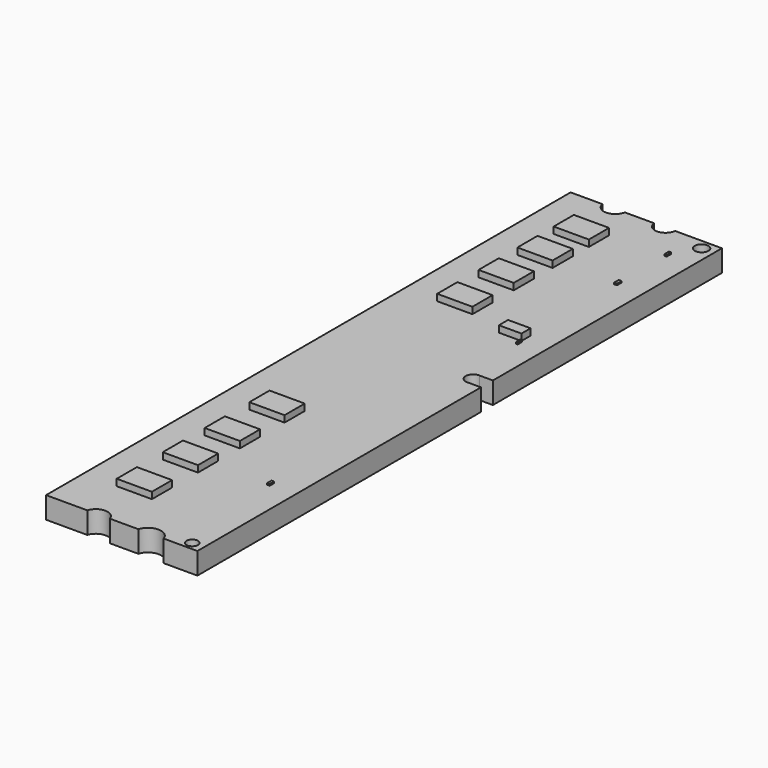
from build123d import *

# Parameters (mm, degrees)
F1_DEPTH = 0.43
F2_R     = 0.114538
F2_R_2   = 0.135459
F3_DEPTH = 25
F4_W     = 0.697841
F4_H     = 0.5
F4_W_2   = 0.446198
F4_H_2   = 0.226708
F5_DEPTH = 0.13
F7_DEPTH = 25
F8_W     = 0.044617
F8_H     = 0.11
F8_W_2   = 0.05577
F8_W_3   = 0.03778
F8_W_4   = 0.051917
F9_DEPTH = 0.03


with BuildPart() as f1:
    # F0 (on Top) → F1 (new body)
    with BuildSketch(Plane.XY):
        with BuildLine():
            Line((-17.317478, 8.504073), (-17.317478, 21.504073))
            Line((-17.317478, 21.504073), (-18.245058, 21.504073))
            ThreePointArc((-18.245058, 21.504073), (-18.453947, 21.317083), (-18.662836, 21.504073))
            Line((-18.662836, 21.504073), (-19.242154, 21.504073))
            ThreePointArc((-19.242154, 21.504073), (-19.46455, 21.317806), (-19.686945, 21.504073))
            Line((-19.686945, 21.504073), (-20.317478, 21.504073))
            Line((-20.317478, 21.504073), (-20.317478, 8.504073))
            Line((-20.317478, 8.504073), (-19.500678, 8.504073))
            ThreePointArc((-19.500678, 8.504073), (-19.276541, 8.670717), (-19.052403, 8.504073))
            Line((-19.052403, 8.504073), (-18.489325, 8.504073))
            ThreePointArc((-18.489325, 8.504073), (-18.237854, 8.690502), (-17.986383, 8.504073))
            Line((-17.986383, 8.504073), (-17.317478, 8.504073))
        make_face()
    extrude(amount=F1_DEPTH)

    # F2 (on face) → F3 (cut)
    with BuildSketch(Plane.XY.offset(0.43)):
        with Locations((-17.549288, 8.667056)):
            Circle(F2_R)
        with Locations((-17.561315, 21.304632)):
            Circle(F2_R_2)
    extrude(amount=-F3_DEPTH, mode=Mode.SUBTRACT)

    # F4 (on face) → F5 (join)
    with BuildSketch(Plane.XY.offset(0.43)):
        with Locations((-19.301415, 20.500756)):
            Rectangle(F4_W, F4_H)
        with Locations((-19.301415, 19.600825)):
            Rectangle(F4_W, F4_H)
        with Locations((-19.301415, 18.6384)):
            Rectangle(F4_W, F4_H)
        with Locations((-19.301415, 17.613479)):
            Rectangle(F4_W, F4_H)
        with Locations((-18.021959, 17.250125)):
            Rectangle(F4_W_2, F4_H_2)
        with Locations((-19.301415, 12.958157)):
            Rectangle(F4_W, F4_H)
        with Locations((-19.301415, 11.851003)):
            Rectangle(F4_W, F4_H)
        with Locations((-19.301415, 10.811981)):
            Rectangle(F4_W, F4_H)
        with Locations((-19.301415, 9.670762)):
            Rectangle(F4_W, F4_H)
    extrude(amount=F5_DEPTH)

    # F6 (on face) → F7 (cut)
    with BuildSketch(Plane.XY.offset(0.43)):
        with BuildLine():
            Line((-17.317478, 15.827807), (-17.584291, 15.827807))
            ThreePointArc((-17.584291, 15.827807), (-17.73952, 15.677507), (-17.579334, 15.532503))
            Line((-17.579334, 15.532503), (-17.317478, 15.532503))
            Line((-17.317478, 15.532503), (-17.317478, 15.827807))
        make_face()
    extrude(amount=-F7_DEPTH, mode=Mode.SUBTRACT)

    # F8 (on face) → F9 (join)
    with BuildSketch(Plane.XY.offset(0.43)):
        with Locations((-17.831758, 20.805756)):
            Rectangle(F8_W, F8_H)
        with Locations((-17.837335, 19.574996)):
            Rectangle(F8_W_2, F8_H)
        with Locations((-17.79056, 17.065835)):
            Rectangle(F8_W_3, F8_H)
        with Locations((-17.835408, 10.966537)):
            Rectangle(F8_W_4, F8_H)
    extrude(amount=F9_DEPTH)


solid = f1.part
